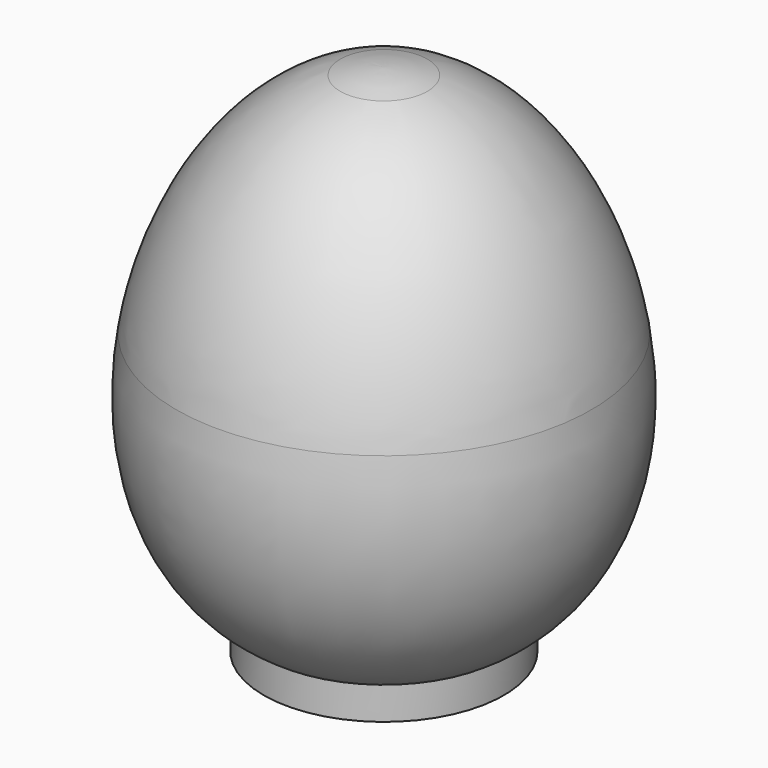
from build123d import *


with BuildPart() as f1:
    # F0 (on Front) → F1 (revolve)
    with BuildSketch(Plane.XZ):
        with BuildLine():
            Line((-5.446224, 32), (0, 32))
            Line((0, 32), (0, 32.883331))
            add(Edge.make_bspline(
                [(0, 32.883331), (-1.888692, 32.844711), (-3.707655, 32.538594), (-5.446224, 32)],
                knots=[0, 0, 0, 0, 4.211789, 4.211789, 4.211789, 4.211789], degree=3))
        make_face()
        with BuildLine():
            add(Edge.make_bspline(
                [(0, 30.883331), (-11.76946, 28.886979), (-19.932164, 16.607627), (-22.114318, 3.651714)],
                knots=[0, 0, 0, 0, 27.353829, 27.353829, 27.353829, 27.353829], degree=3))
            Line((0, 30.883331), (0, 32))
            Line((0, 32), (-5.446224, 32))
            add(Edge.make_bspline(
                [(-5.446224, 32), (-16.18823, 28.672215), (-23.861154, 16.469431), (-25.949597, 3.651714)],
                knots=[4.211789, 4.211789, 4.211789, 4.211789, 30.234954, 30.234954, 30.234954, 30.234954], degree=3))
            Line((-25.949597, 3.651714), (-24.531957, 3.651714))
            Line((-24.531957, 3.651714), (-24.031957, 3.651714))
            Line((-24.031957, 3.651714), (-22.114318, 3.651714))
        make_face()
        with BuildLine():
            add(Edge.make_bspline(
                [(-22.114318, 3.651714), (-22.563337, 0.985795), (-22.759135, -1.70877), (-22.681031, -4.348286)],
                knots=[27.353829, 27.353829, 27.353829, 27.353829, 32.982386, 32.982386, 32.982386, 32.982386], degree=3))
            Line((-22.114318, 3.651714), (-24.031957, 3.651714))
            Line((-24.031957, 3.651714), (-24.031957, -4.348286))
            Line((-24.031957, -4.348286), (-22.681031, -4.348286))
        make_face()
    revolve(axis=Axis((0, 0, 0), (0, 0, -1)))


with BuildPart() as f2:
    # F0 (on Front) → F2 (revolve)
    with BuildSketch(Plane.XZ):
        with BuildLine():
            Line((-15, -31.313913), (0, -31.313913))
            add(Edge.make_bspline(
                [(-15, -27.229895), (-11.110039, -29.68691), (-6.151404, -31.184084), (0, -31.313913)],
                knots=[54.65296, 54.65296, 54.65296, 54.65296, 64.197243, 64.197243, 64.197243, 64.197243], degree=3))
            Line((-15, -27.229895), (-15, -31.313913))
        make_face()
        with BuildLine():
            Line((0, -31.313913), (0, -29.313913))
            add(Edge.make_bspline(
                [(-15, -23.508751), (-11.40003, -26.849271), (-6.4561, -29.011231), (0, -29.313913)],
                knots=[48.877934, 48.877934, 48.877934, 48.877934, 60.197243, 60.197243, 60.197243, 60.197243], degree=3))
            Line((-15, -23.508751), (-15, -27.229895))
            add(Edge.make_bspline(
                [(-15, -27.229895), (-11.110039, -29.68691), (-6.151404, -31.184084), (0, -31.313913)],
                knots=[54.65296, 54.65296, 54.65296, 54.65296, 64.197243, 64.197243, 64.197243, 64.197243], degree=3))
        make_face()
        with BuildLine():
            add(Edge.make_bspline(
                [(-22.681031, -4.348286), (-22.46046, -11.802516), (-20.055388, -18.817705), (-15, -23.508751)],
                knots=[32.982386, 32.982386, 32.982386, 32.982386, 48.877934, 48.877934, 48.877934, 48.877934], degree=3))
            Line((-22.681031, -4.348286), (-24.031957, -4.348286))
            Line((-24.031957, -4.348286), (-24.531957, -4.348286))
            Line((-24.531957, -4.348286), (-24.531957, 3.651714))
            Line((-24.531957, 3.651714), (-25.949597, 3.651714))
            add(Edge.make_bspline(
                [(-25.949597, 3.651714), (-27.90922, -8.375382), (-24.952039, -20.943891), (-15, -27.229895)],
                knots=[30.234954, 30.234954, 30.234954, 30.234954, 54.65296, 54.65296, 54.65296, 54.65296], degree=3))
            Line((-15, -27.229895), (-15, -23.508751))
        make_face()
    revolve(axis=Axis((0, 0, 0), (0, 0, -1)))


solid = Compound([f1.part, f2.part])
